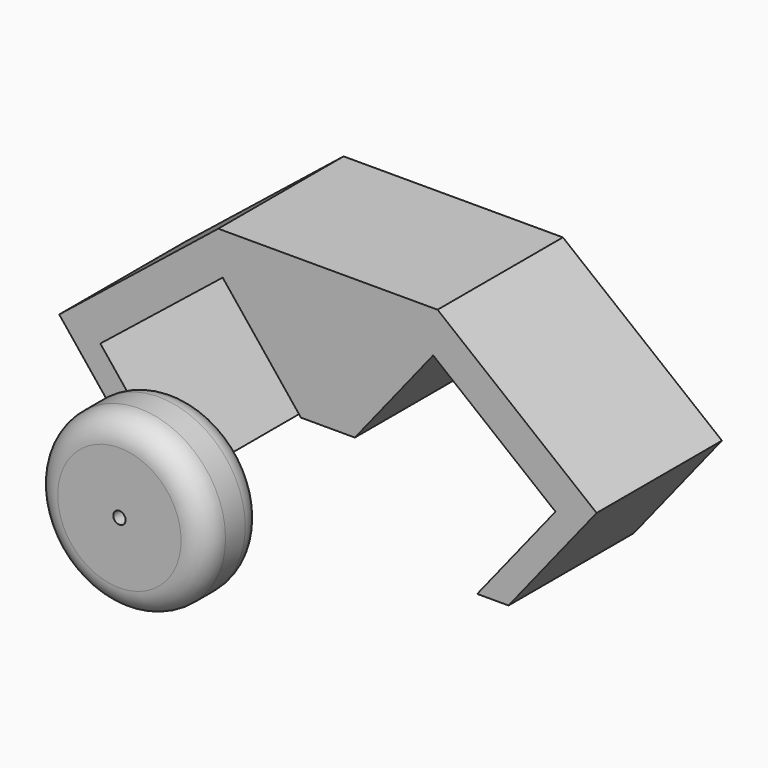
from build123d import *

# Parameters (mm, degrees)
F1_DEPTH = 31.75
F2_R     = 17.5
F3_DEPTH = 15
F4_R     = 5
F5_R     = 1.25
F6_DEPTH = 15


with BuildPart() as f1:
    # F0 (on Front) → F1 (new body)
    with BuildSketch(Plane.XZ):
        Polygon((-6.35, 0), (0, 0), (-15.867254, 19.834068), (8.92533, 39.668136), (24.792585, 19.834068), (35.716649, 19.834015), (51.584078, 39.668165), (76.376596, 19.834015), (60.509276, 0), (66.859276, 0), (84.709973, 22.313218), (52.479699, 48.097614), (8.029699, 48.097614), (-24.200661, 22.313326), align=None)
    extrude(amount=-F1_DEPTH)


with BuildPart() as f3:
    # F2 (on Front) → F3 (new body)
    with BuildSketch(Plane.XZ):
        Circle(F2_R)
    extrude(amount=F3_DEPTH)

    # F4
    f4_edges = [f3.edges().sort_by_distance(p)[0] for p in [
        (-17.5, -15, 0),
        (-17.5, 0, 0),
    ]]
    fillet(f4_edges, radius=F4_R)

    # F5 (on face) → F6 (cut)
    with BuildSketch(Plane.XZ.offset(15)):
        Circle(F5_R)
    extrude(amount=-F6_DEPTH, mode=Mode.SUBTRACT)


solid = Compound([f1.part, f3.part])
